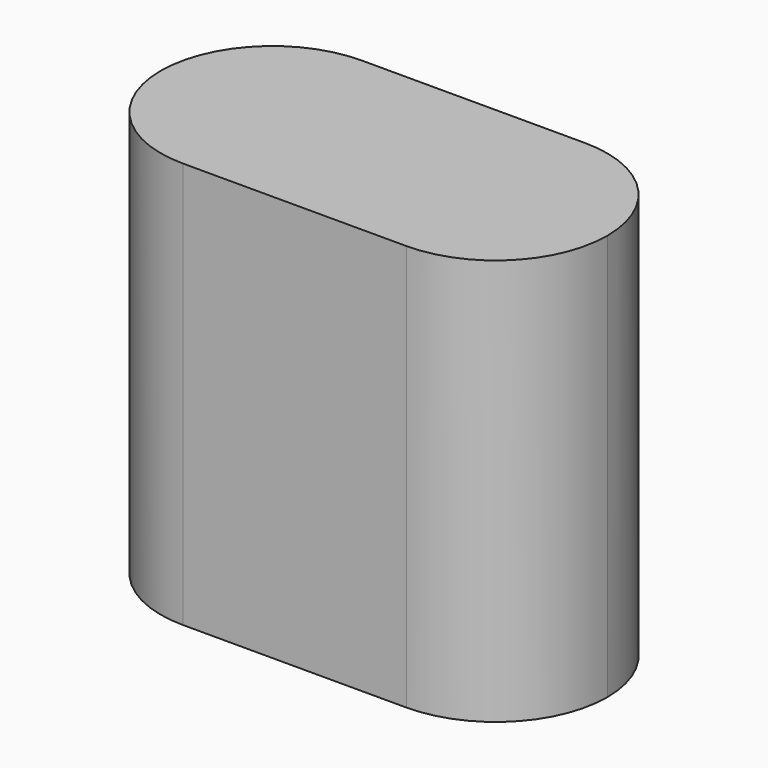
from build123d import *

# Parameters (mm, degrees)
F1_DEPTH = 60.5


with BuildPart() as f1:
    # F0 (on Top) → F1 (new body)
    with BuildSketch(Plane.XY):
        with BuildLine():
            ThreePointArc((0, -16.625), (11.75565, -11.75565), (16.625, 0))
            ThreePointArc((16.625, 0), (11.75565, 11.75565), (0, 16.625))
            ThreePointArc((0, 16.625), (-16.625, 0), (0, -16.625))
        make_face()
        with BuildLine():
            ThreePointArc((0, 16.625), (11.75565, 11.75565), (16.625, 0))
            ThreePointArc((16.625, 0), (21.49435, 11.75565), (33.25, 16.625))
            Line((33.25, 16.625), (0, 16.625))
        make_face()
        with BuildLine():
            ThreePointArc((33.25, 16.625), (21.49435, 11.75565), (16.625, 0))
            ThreePointArc((16.625, 0), (21.49435, -11.75565), (33.25, -16.625))
            ThreePointArc((33.25, -16.625), (45.00565, -11.75565), (49.875, 0))
            ThreePointArc((49.875, 0), (45.00565, 11.75565), (33.25, 16.625))
        make_face()
        with BuildLine():
            ThreePointArc((33.25, -16.625), (21.49435, -11.75565), (16.625, 0))
            ThreePointArc((16.625, 0), (11.75565, -11.75565), (0, -16.625))
            Line((0, -16.625), (33.25, -16.625))
        make_face()
    extrude(amount=F1_DEPTH)


solid = f1.part
